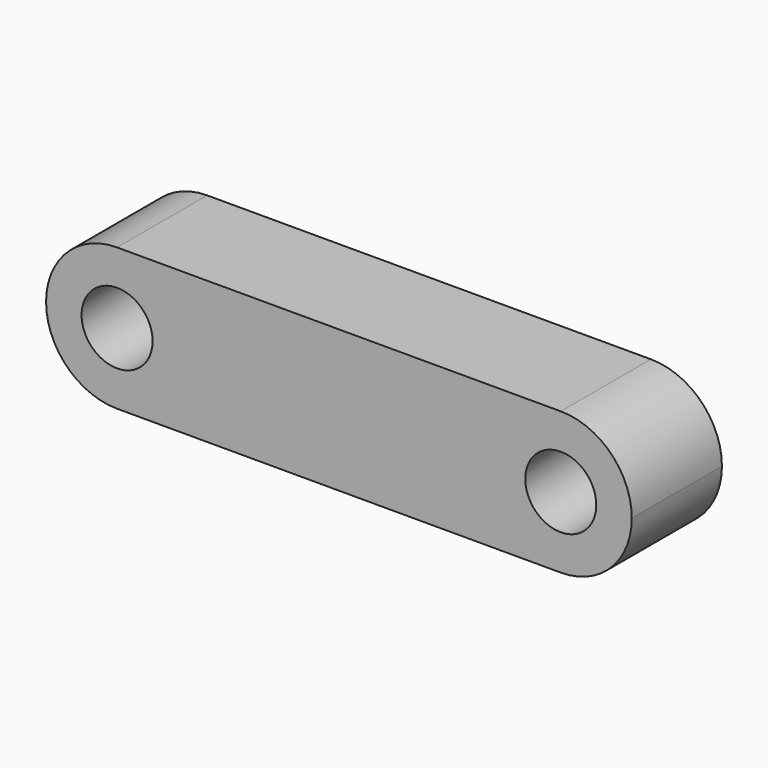
from build123d import *

# Parameters (mm, degrees)
F1_DEPTH = 12.7
F2_R     = 4.0005
F3_DEPTH = 12.7


with BuildPart() as f1:
    # F0 (on Front) → F1 (new body)
    with BuildSketch(Plane.XZ):
        with BuildLine():
            ThreePointArc((0, -8.001), (-8.001, 0), (0, 8.001))
            Line((0, 8.001), (-50, 8.001))
            ThreePointArc((-50, 8.001), (-44.342439, 5.657561), (-41.999, 0))
            ThreePointArc((-41.999, 0), (-44.342439, -5.657561), (-50, -8.001))
            Line((-50, -8.001), (0, -8.001))
        make_face()
        with BuildLine():
            ThreePointArc((-41.999, 0), (-44.342439, 5.657561), (-50, 8.001))
            ThreePointArc((-50, 8.001), (-58.001, 0), (-50, -8.001))
            ThreePointArc((-50, -8.001), (-44.342439, -5.657561), (-41.999, 0))
        make_face()
        with BuildLine():
            ThreePointArc((0, -8.001), (5.657561, -5.657561), (8.001, 0))
            ThreePointArc((8.001, 0), (5.657561, 5.657561), (0, 8.001))
            ThreePointArc((0, 8.001), (-8.001, 0), (0, -8.001))
        make_face()
    extrude(amount=F1_DEPTH)

    # F2 (on face) → F3 (cut, through all)
    with BuildSketch(Plane.XZ.offset(12.7)):
        with Locations((-50, 0)):
            Circle(F2_R)
        Circle(F2_R)
    extrude(amount=-F3_DEPTH, mode=Mode.SUBTRACT)


solid = f1.part
